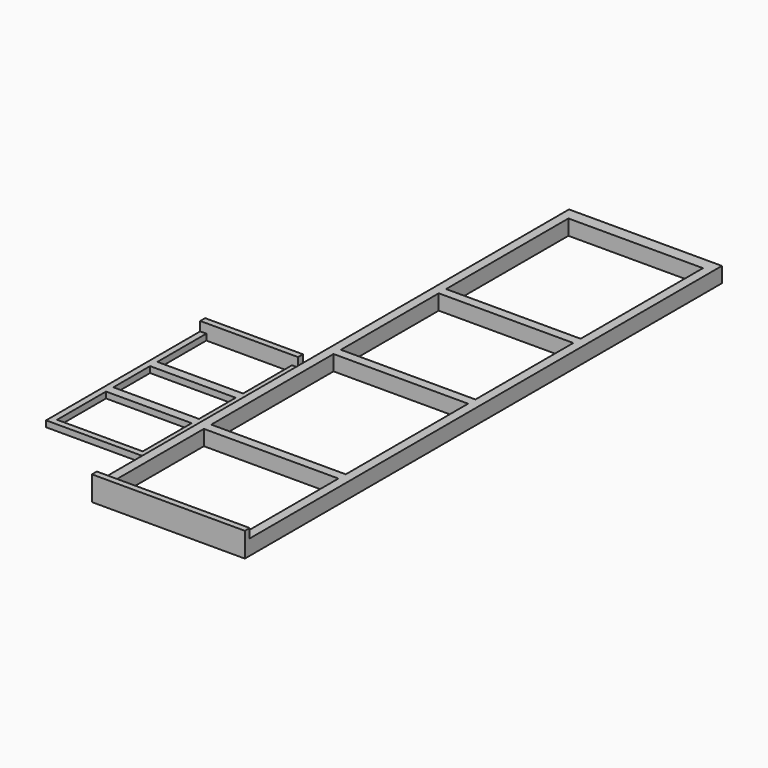
from build123d import *

# Parameters (mm, degrees)
SKETCH002_W     = 32
SKETCH002_H     = 65
PAD001_DEPTH    = 2
SKETCH003_W     = 32
SKETCH003_H     = 2
PAD002_DEPTH    = 3
SKETCH004_W     = 28
SKETCH004_H     = 20
SKETCH004_H_2   = 15
POCKET001_DEPTH = 5
SKETCH_W        = 50
SKETCH_H        = 195
PAD_DEPTH       = 5
SKETCH001_W     = 50
SKETCH001_H     = 2
PAD003_DEPTH    = 3
SKETCH005_W     = 44
SKETCH005_H     = 40
SKETCH005_H_2   = 50
POCKET_DEPTH    = 5


with BuildPart() as fuselagetemplate:
    # Sketch002 → Pad001 (new body)
    with BuildSketch(Plane.XY):
        with Locations((16, 32.5)):
            Rectangle(SKETCH002_W, SKETCH002_H)
    extrude(amount=PAD001_DEPTH)

    # Sketch003 (on Face6 of Pad001) → Pad002 (join)
    with BuildSketch(Plane.XY.offset(2)):
        with Locations((16, 64)):
            Rectangle(SKETCH003_W, SKETCH003_H)
    extrude(amount=PAD002_DEPTH)

    # Sketch004 (on Face3 of Pad002) → Pocket001 (cut)
    with BuildSketch(Plane.XY.offset(2)):
        with Locations((16, 53)):
            Rectangle(SKETCH004_W, SKETCH004_H)
        with Locations((16, 32.5)):
            Rectangle(SKETCH004_W, SKETCH004_H_2)
        with Locations((16, 12)):
            Rectangle(SKETCH004_W, SKETCH004_H)
    extrude(amount=-POCKET001_DEPTH, mode=Mode.SUBTRACT)


with BuildPart() as fuselagetemplate_1:
    # Body001 placement: moved
    add(fuselagetemplate.part.moved(Location((0, 25, 0))))


with BuildPart() as cockpittemplate:
    # Sketch → Pad (new body)
    with BuildSketch(Plane.XY):
        with Locations((25, 97.5)):
            Rectangle(SKETCH_W, SKETCH_H)
    extrude(amount=PAD_DEPTH)

    # Sketch001 (on Face6 of Pad) → Pad003 (join)
    with BuildSketch(Plane.XY.offset(5)):
        with Locations((25, 1)):
            Rectangle(SKETCH001_W, SKETCH001_H)
    extrude(amount=PAD003_DEPTH)

    # Sketch005 (on Face3 of Pad003) → Pocket (cut)
    with BuildSketch(Plane.XY.offset(5)):
        with Locations((25, 22)):
            Rectangle(SKETCH005_W, SKETCH005_H)
        with Locations((25, 70)):
            Rectangle(SKETCH005_W, SKETCH005_H_2)
        with Locations((25, 118)):
            Rectangle(SKETCH005_W, SKETCH005_H)
        with Locations((25, 166)):
            Rectangle(SKETCH005_W, SKETCH005_H_2)
    extrude(amount=-POCKET_DEPTH, mode=Mode.SUBTRACT)


with BuildPart() as cockpittemplate_1:
    # Body002 placement: moved
    add(cockpittemplate.part.moved(Location((35, 0, 0))))


solid = Compound([fuselagetemplate_1.part, cockpittemplate_1.part])
